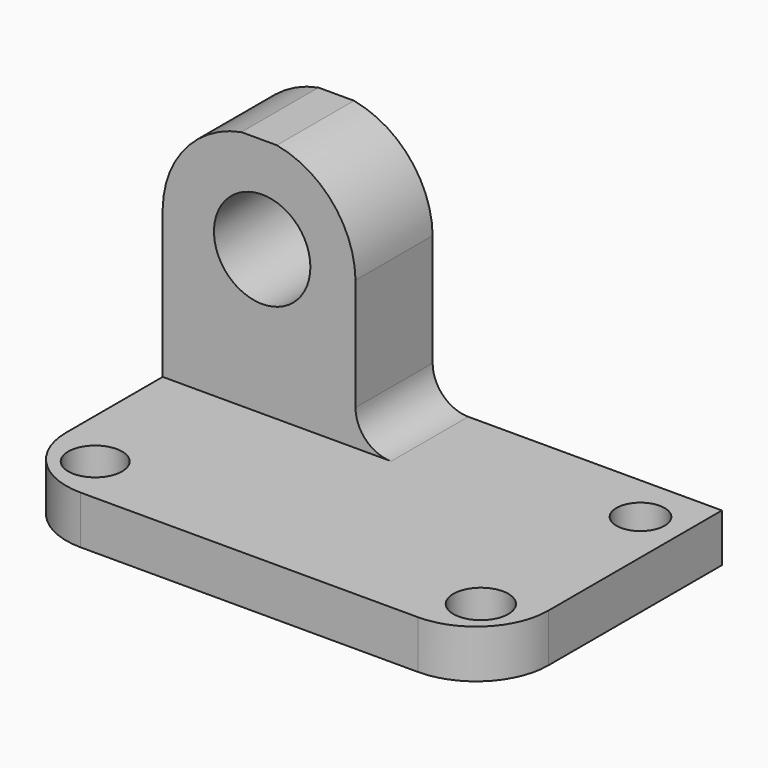
from build123d import *

# Parameters (mm, degrees)
F0_W      = 63.5
F0_H      = 38.1
F1_DEPTH  = 6.35
F2_R      = 3.5505344057
F2_R_2    = 3.6174877647
F2_R_3    = 3.175
F3_DEPTH  = 25.4
F4_W      = 25.4
F4_H      = 12.7
F5_DEPTH  = 31.75
F6_R      = 6.35
F7_DEPTH  = 12.701
F8_R      = 9.525
F9_W      = 12.7
F9_H      = 9.7370275993
F10_DEPTH = 12.7
F12_DEPTH = 25.4


with BuildPart() as f1:
    # F0 (on Top) → F1 (new body)
    with BuildSketch(Plane.XY):
        with Locations((31.75, 19.05)):
            Rectangle(F0_W, F0_H)
    extrude(amount=F1_DEPTH)

    # F2 (on face) → F3 (cut)
    with BuildSketch(Plane.XY.offset(6.35)):
        with Locations((6.35, 6.35)):
            Circle(F2_R)
        with Locations((57.15, 6.35)):
            Circle(F2_R_2)
        with Locations((57.8531328631, 31.75)):
            Circle(F2_R_3)
    extrude(amount=-F3_DEPTH, mode=Mode.SUBTRACT)

    # F4 (on face) → F5 (join)
    with BuildSketch(Plane.XY.offset(6.35)):
        with Locations((12.7, 31.75)):
            Rectangle(F4_W, F4_H)
    extrude(amount=F5_DEPTH)

    # F6 (on face) → F7 (cut, through all)
    with BuildSketch(Plane.XZ.offset(-25.4)):
        with Locations((13.1049470376, 25.4064576301)):
            Circle(F6_R)
        with BuildLine():
            ThreePointArc((0, 25.8240551986), (2.9939347232, 33.8082957634), (10.3623142783, 38.1))
            Line((10.3623142783, 38.1), (0, 38.1))
            Line((0, 38.1), (0, 25.8240551986))
        make_face()
        with BuildLine():
            ThreePointArc((15.0376857217, 38.1), (22.4060652768, 33.8082957634), (25.4, 25.8240551986))
            Line((25.4, 25.8240551986), (25.4, 38.1))
            Line((25.4, 38.1), (15.0376857217, 38.1))
        make_face()
    extrude(amount=-F7_DEPTH, mode=Mode.SUBTRACT)

    # F8
    f8_edges = [f1.edges().sort_by_distance(p)[0] for p in [
        (0, 0, 3.175),
        (63.5, 0, 3.175),
    ]]
    fillet(f8_edges, radius=F8_R)

    # F9 (on face) → F10 (join)
    with BuildSketch(Plane.YZ.offset(25.4)):
        with Locations((31.75, 11.2185137997)):
            Rectangle(F9_W, F9_H)
    extrude(amount=F10_DEPTH)

    # F11 (on face) → F12 (cut)
    with BuildSketch(Plane.XZ.offset(-25.4)):
        with BuildLine():
            ThreePointArc((34.7881134803, 11.0440567401), (30.0940567401, 15.7381134803), (25.4, 11.0440567401))
            ThreePointArc((25.4, 11.0440567401), (26.7748573879, 7.7248573879), (30.0940567401, 6.35))
            ThreePointArc((30.0940567401, 6.35), (33.4132560924, 7.7248573879), (34.7881134803, 11.0440567401))
        make_face()
        with BuildLine():
            Line((38.1, 16.0870275993), (25.4, 16.0870275993))
            Line((25.4, 16.0870275993), (25.4, 11.0440567401))
            ThreePointArc((25.4, 11.0440567401), (30.0940567401, 15.7381134803), (34.7881134803, 11.0440567401))
            ThreePointArc((34.7881134803, 11.0440567401), (33.4132560924, 7.7248573879), (30.0940567401, 6.35))
            Line((30.0940567401, 6.35), (38.1, 6.35))
            Line((38.1, 6.35), (38.1, 16.0870275993))
        make_face()
    extrude(amount=-F12_DEPTH, mode=Mode.SUBTRACT)


solid = f1.part
